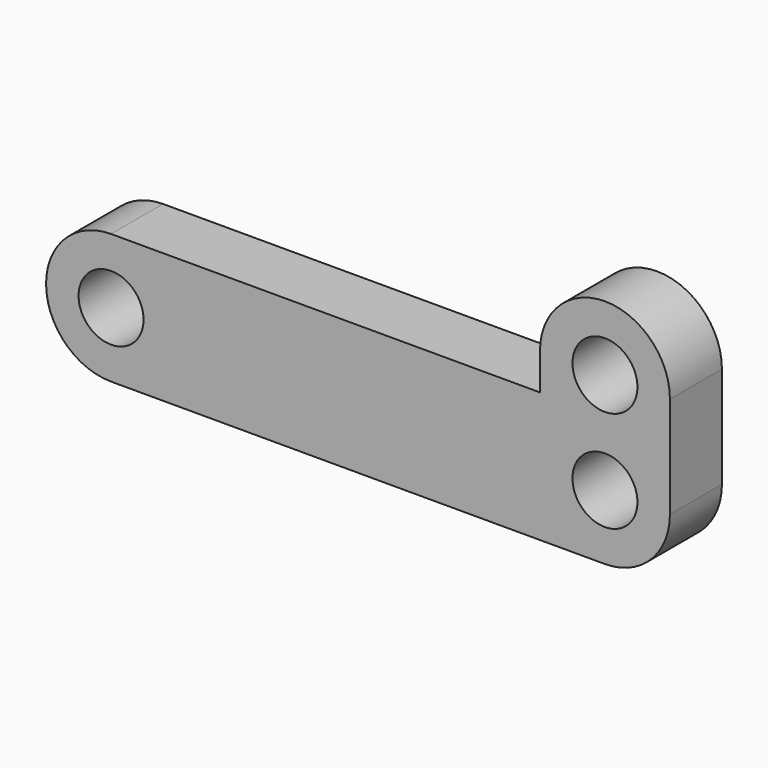
from build123d import *

# Parameters (mm, degrees)
F0_R     = 2.5
F1_DEPTH = 5


with BuildPart() as f1:
    # F0 (on Front) → F1 (new body)
    with BuildSketch(Plane.XZ):
        with BuildLine():
            Line((10.71558, 21.128206), (-22.28442, 21.128206))
            ThreePointArc((-22.28442, 21.128206), (-27.28442, 16.128206), (-22.28442, 11.128206))
            Line((-22.28442, 11.128206), (15.71558, 11.128206))
            ThreePointArc((15.71558, 11.128206), (19.251113, 12.592672), (20.71558, 16.128206))
            Line((20.71558, 16.128206), (20.71558, 23.928206))
            ThreePointArc((20.71558, 23.928206), (15.71558, 28.928206), (10.71558, 23.928206))
            Line((10.71558, 23.928206), (10.71558, 21.128206))
        make_face()
        with Locations((-22.28442, 16.128206)):
            Circle(F0_R, mode=Mode.SUBTRACT)
        with Locations((15.71558, 16.128206)):
            Circle(F0_R, mode=Mode.SUBTRACT)
        with Locations((15.71558, 23.928206)):
            Circle(F0_R, mode=Mode.SUBTRACT)
    extrude(amount=F1_DEPTH)


solid = f1.part
